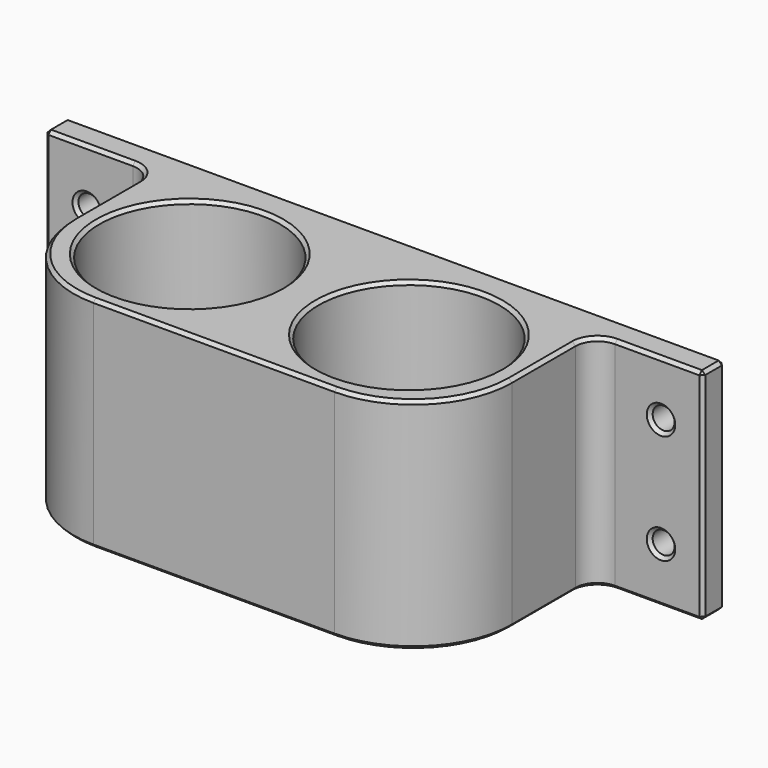
from build123d import *

# Parameters (mm, degrees)
F0_W     = 25.4
F0_H     = 50.8
F0_R     = 2.54
F0_W_2   = 50.8
F1_DEPTH = 6.35
F2_DEPTH = 52.705
F3_R     = 5.08
F4_R     = 20.955
F5_DEPTH = 44.45
F6_R     = 22.86
F7_SIZE  = 0.762


with BuildPart() as f1:
    # F0 (on Front) → F1 (new body)
    with BuildSketch(Plane.XZ):
        with Locations((12.7, 25.4)):
            Rectangle(F0_W, F0_H)
        with Locations((9.652, 12.7)):
            Circle(F0_R, mode=Mode.SUBTRACT)
        with Locations((9.652, 38.1)):
            Circle(F0_R, mode=Mode.SUBTRACT)
        with Locations((139.7, 25.4)):
            Rectangle(F0_W, F0_H)
        with Locations((142.748, 12.7)):
            Circle(F0_R, mode=Mode.SUBTRACT)
        with Locations((142.748, 38.1)):
            Circle(F0_R, mode=Mode.SUBTRACT)
        with Locations((50.8, 25.4)):
            Rectangle(F0_W_2, F0_H)
        with Locations((101.6, 25.4)):
            Rectangle(F0_W_2, F0_H)
    extrude(amount=F1_DEPTH)

    # F0 (on Front) → F2 (join)
    with BuildSketch(Plane.XZ):
        with Locations((50.8, 25.4)):
            Rectangle(F0_W_2, F0_H)
        with Locations((101.6, 25.4)):
            Rectangle(F0_W_2, F0_H)
    extrude(amount=F2_DEPTH)

    # F3
    f3_edges = [f1.edges().sort_by_distance(p)[0] for p in [
        (127, -6.35, 25.4),
        (25.4, -6.35, 25.4),
    ]]
    fillet(f3_edges, radius=F3_R)

    # F4 (on face) → F5 (cut)
    with BuildSketch(Plane.XY.offset(50.8)):
        with Locations((50.8, -27.94)):
            Circle(F4_R)
        with Locations((101.6, -27.94)):
            Circle(F4_R)
    extrude(amount=-F5_DEPTH, mode=Mode.SUBTRACT)

    # F6
    f6_edges = [f1.edges().sort_by_distance(p)[0] for p in [
        (127, -52.705, 25.4),
        (25.4, -52.705, 25.4),
    ]]
    fillet(f6_edges, radius=F6_R)

    # F7
    f7_edges = [f1.edges().sort_by_distance(p)[0] for p in [
        (127, -20.6375, 50.8),
        (120.304461, -46.009461, 50.8),
        (128.487898, -7.837898, 50.8),
        (76.2, -52.705, 50.8),
        (142.24, -6.35, 50.8),
        (32.095539, -46.009461, 50.8),
        (152.4, -3.175, 50.8),
        (25.4, -20.6375, 50.8),
        (76.2, 0, 50.8),
        (23.912102, -7.837898, 50.8),
        (0, -3.175, 50.8),
        (10.16, -6.35, 50.8),
        (80.645, -27.94, 50.8),
        (29.845, -27.94, 50.8),
        (20.32, -6.35, 25.4),
        (0, -6.35, 25.4),
        (10.16, -6.35, 0),
        (7.112, -6.35, 12.7),
        (7.112, -6.35, 38.1),
        (132.08, -6.35, 25.4),
        (152.4, -6.35, 25.4),
        (142.24, -6.35, 0),
        (140.208, -6.35, 12.7),
        (140.208, -6.35, 38.1),
        (25.4, -20.6375, 0),
        (32.095539, -46.009461, 0),
        (23.912102, -7.837898, 0),
        (76.2, -52.705, 0),
        (120.304461, -46.009461, 0),
        (0, -3.175, 0),
        (127, -20.6375, 0),
        (76.2, 0, 0),
        (128.487898, -7.837898, 0),
        (152.4, -3.175, 0),
        (0, 0, 25.4),
        (152.4, 0, 25.4),
        (7.112, 0, 12.7),
        (7.112, 0, 38.1),
        (140.208, 0, 38.1),
        (140.208, 0, 12.7),
        (29.845, -27.94, 6.35),
        (80.645, -27.94, 6.35),
    ]]
    chamfer(f7_edges, length=F7_SIZE)


solid = f1.part
